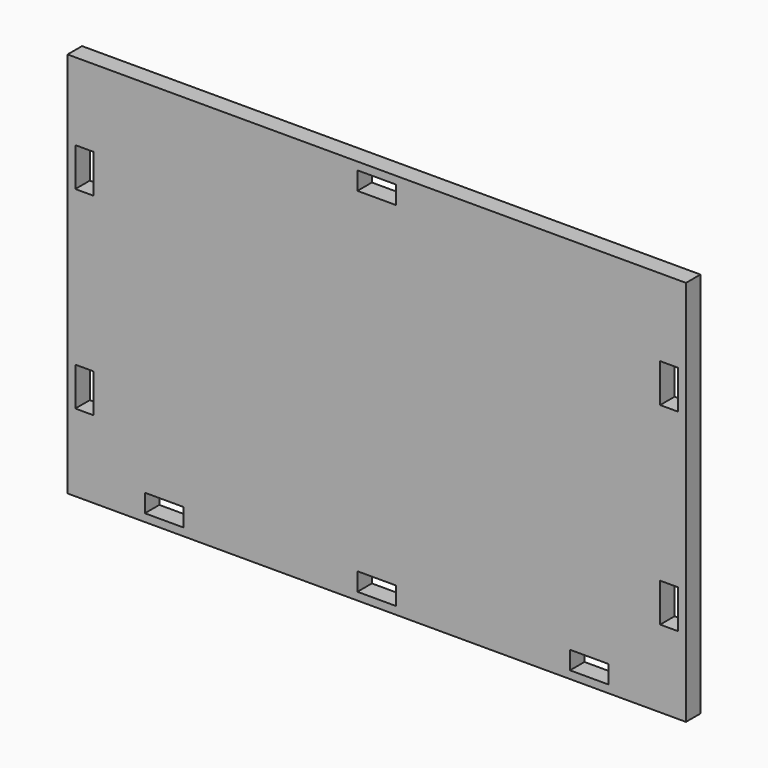
from build123d import *

# Parameters (mm, degrees)
F0_W     = 101.6
F0_H     = 63.5
F0_W_2   = 6.35
F0_H_2   = 2.9718
F0_W_3   = 2.9718
F0_H_3   = 6.35
F1_DEPTH = 2.9718


with BuildPart() as f1:
    # F0 (on Front) → F1 (new body)
    with BuildSketch(Plane.XZ):
        Rectangle(F0_W, F0_H)
        with Locations((-34.925, -28.9941)):
            Rectangle(F0_W_2, F0_H_2, mode=Mode.SUBTRACT)
        with Locations((0, -28.9941)):
            Rectangle(F0_W_2, F0_H_2, mode=Mode.SUBTRACT)
        with Locations((-48.0441, -15.875)):
            Rectangle(F0_W_3, F0_H_3, mode=Mode.SUBTRACT)
        with Locations((34.925, -28.9941)):
            Rectangle(F0_W_2, F0_H_2, mode=Mode.SUBTRACT)
        with Locations((48.0441, -15.875)):
            Rectangle(F0_W_3, F0_H_3, mode=Mode.SUBTRACT)
        with Locations((-48.0441, 15.875)):
            Rectangle(F0_W_3, F0_H_3, mode=Mode.SUBTRACT)
        with Locations((0, 28.9941)):
            Rectangle(F0_W_2, F0_H_2, mode=Mode.SUBTRACT)
        with Locations((48.0441, 15.875)):
            Rectangle(F0_W_3, F0_H_3, mode=Mode.SUBTRACT)
    extrude(amount=F1_DEPTH)


solid = f1.part
